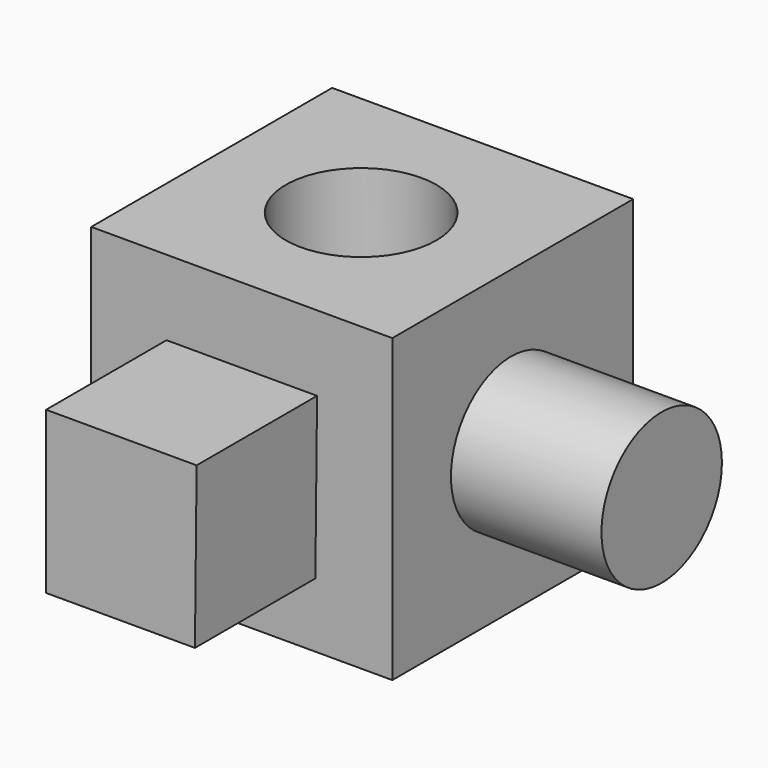
from build123d import *

# Parameters (mm, degrees)
F0_W     = 50.8
F0_H     = 50.8
F1_DEPTH = 50.8
F3_DEPTH = 25.4
F4_R     = 12.7
F5_DEPTH = 25.4
F6_R     = 12.7
F7_DEPTH = 25.4


with BuildPart() as f1:
    # F0 (on Front) → F1 (new body)
    with BuildSketch(Plane.XZ):
        with Locations((-25.4, 25.4)):
            Rectangle(F0_W, F0_H)
    extrude(amount=F1_DEPTH)

    # F2 (on face) → F3 (join)
    with BuildSketch(Plane.XZ.offset(50.8)):
        Polygon((-12.7, 38.1), (-38.1, 38.1), (-38.1, 10.884415), (-12.984917, 10.884415), align=None)
    extrude(amount=F3_DEPTH)

    # F4 (on face) → F5 (join)
    with BuildSketch(Plane.YZ):
        with Locations((-25.738167, 25.206015)):
            Circle(F4_R)
    extrude(amount=F5_DEPTH)

    # F6 (on face) → F7 (cut)
    with BuildSketch(Plane.XY.offset(50.8)):
        with Locations((-25.587924, -25.396967)):
            Circle(F6_R)
    extrude(amount=-F7_DEPTH, mode=Mode.SUBTRACT)


solid = f1.part
